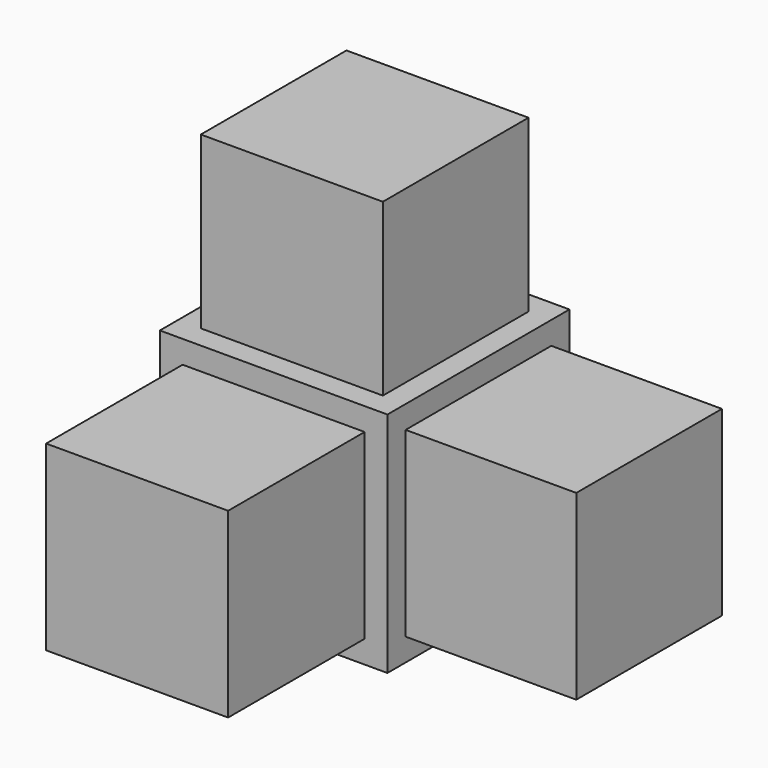
from build123d import *

# Parameters (mm, degrees)
F0_W     = 20
F0_H     = 20
F1_DEPTH = 20
F2_W     = 16
F2_H     = 16
F3_DEPTH = 15
F4_W     = 16
F4_H     = 16
F5_DEPTH = 15
F6_W     = 16
F6_H     = 16
F7_DEPTH = 15


with BuildPart() as f1:
    # F0 (on Front) → F1 (new body)
    with BuildSketch(Plane.XZ):
        with Locations((10, -10)):
            Rectangle(F0_W, F0_H)
    extrude(amount=F1_DEPTH)

    # F2 (on face) → F3 (join)
    with BuildSketch(Plane.XZ.offset(20)):
        with Locations((10, -10)):
            Rectangle(F2_W, F2_H)
    extrude(amount=F3_DEPTH)

    # F4 (on face) → F5 (join)
    with BuildSketch(Plane.YZ.offset(20)):
        with Locations((-10, -10)):
            Rectangle(F4_W, F4_H)
    extrude(amount=F5_DEPTH)

    # F6 (on face) → F7 (join)
    with BuildSketch(Plane.XY):
        with Locations((10, -10)):
            Rectangle(F6_W, F6_H)
    extrude(amount=F7_DEPTH)


solid = f1.part
